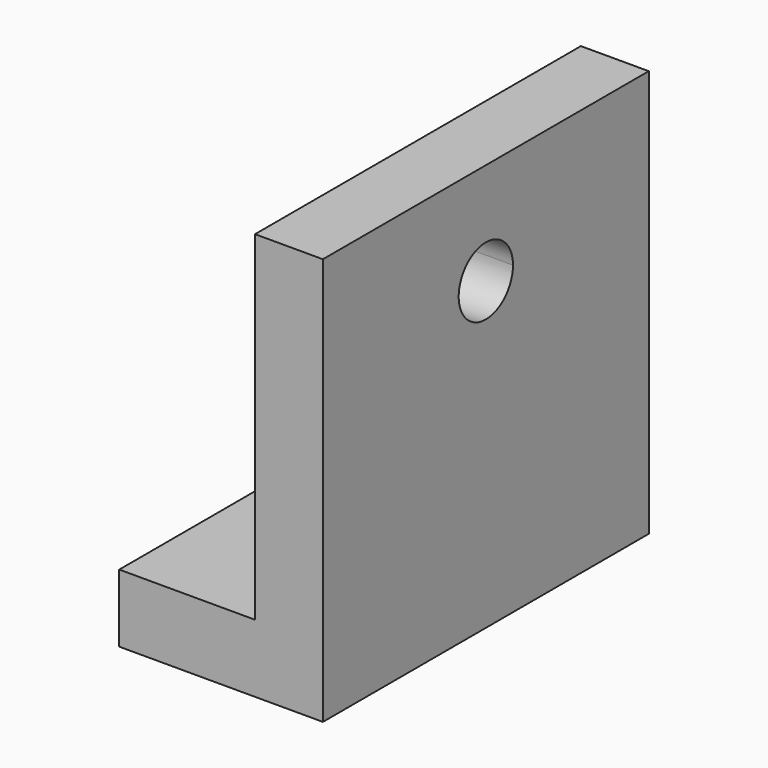
from build123d import *

# Parameters (mm, degrees)
F1_DEPTH = 76.2
F3_DEPTH = 50.8


with BuildPart() as f1:
    # F0 (on Front) → F1 (new body, symmetric)
    with BuildSketch(Plane.XZ):
        Polygon((-76.2, 0), (0, 0), (0, 152.4), (-25.4, 152.4), (-25.4, 25.4), (-76.2, 25.4), align=None)
    extrude(amount=F1_DEPTH, both=True)

    # F2 (on face) → F3 (cut)
    with BuildSketch(Plane.YZ):
        with BuildLine():
            Line((0, 114.3), (0, 127))
            ThreePointArc((0, 127), (-8.980256, 105.319744), (12.7, 114.3))
            Line((12.7, 114.3), (0, 114.3))
        make_face()
        with BuildLine():
            ThreePointArc((12.7, 114.3), (8.980256, 123.280256), (0, 127))
            Line((0, 127), (0, 114.3))
            Line((0, 114.3), (12.7, 114.3))
        make_face()
    extrude(amount=-F3_DEPTH, mode=Mode.SUBTRACT)


solid = f1.part
